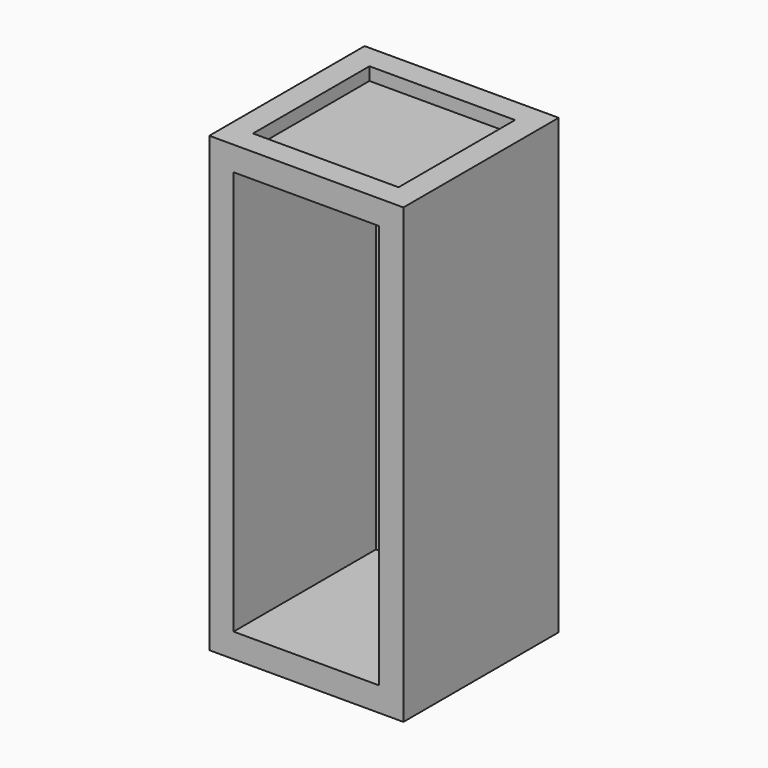
from build123d import *

# Parameters (mm, degrees)
F0_W     = 304.8
F0_H     = 304.8
F1_DEPTH = 711.2
F2_W     = 228.6
F2_H     = 635
F3_DEPTH = 279.4
F4_W     = 228.6
F4_H     = 228.6
F5_DEPTH = 20.32


with BuildPart() as f1:
    # F0 (on Top) → F1 (new body)
    with BuildSketch(Plane.XY):
        with Locations((40.065344, -30.093398)):
            Rectangle(F0_W, F0_H)
    extrude(amount=F1_DEPTH)

    # F2 (on face) → F3 (cut)
    with BuildSketch(Plane.XZ.offset(182.493398)):
        with Locations((40.065344, 355.6)):
            Rectangle(F2_W, F2_H)
    extrude(amount=-F3_DEPTH, mode=Mode.SUBTRACT)

    # F4 (on face) → F5 (cut)
    with BuildSketch(Plane.XY.offset(711.2)):
        with Locations((40.065344, -30.093398)):
            Rectangle(F4_W, F4_H)
    extrude(amount=-F5_DEPTH, mode=Mode.SUBTRACT)


solid = f1.part
